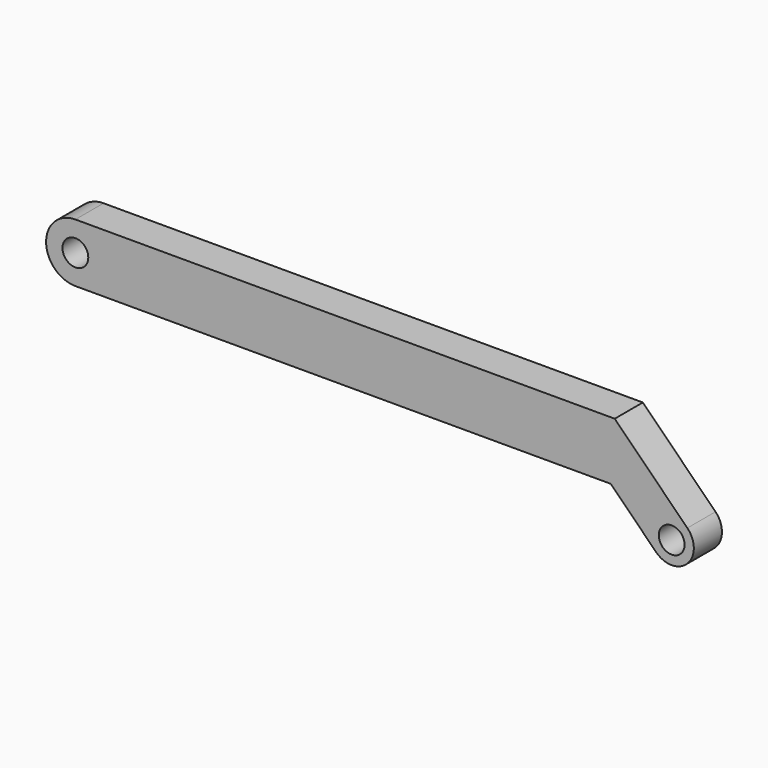
from build123d import *

# Parameters (mm, degrees)
SKETCH_R  = 1.1
PAD_DEPTH = 3


with BuildPart() as part:
    # Sketch → Pad (new body)
    with BuildSketch(Plane.XZ):
        with BuildLine():
            ThreePointArc((0, 2.5), (-2.5, 0), (0, -2.5))
            Line((0, -2.5), (45.661184, -2.5))
            Line((45.661184, -2.5), (49.52382, -6.362636))
            ThreePointArc((49.52382, -6.362636), (52.193228, -6.362636), (52.193228, -3.693228))
            Line((46, 2.5), (52.193228, -3.693228))
            Line((0, 2.5), (46, 2.5))
        make_face()
        Circle(SKETCH_R, mode=Mode.SUBTRACT)
        with Locations((50.858524, -5.027932)):
            Circle(SKETCH_R, mode=Mode.SUBTRACT)
    extrude(amount=PAD_DEPTH)


solid = part.part
